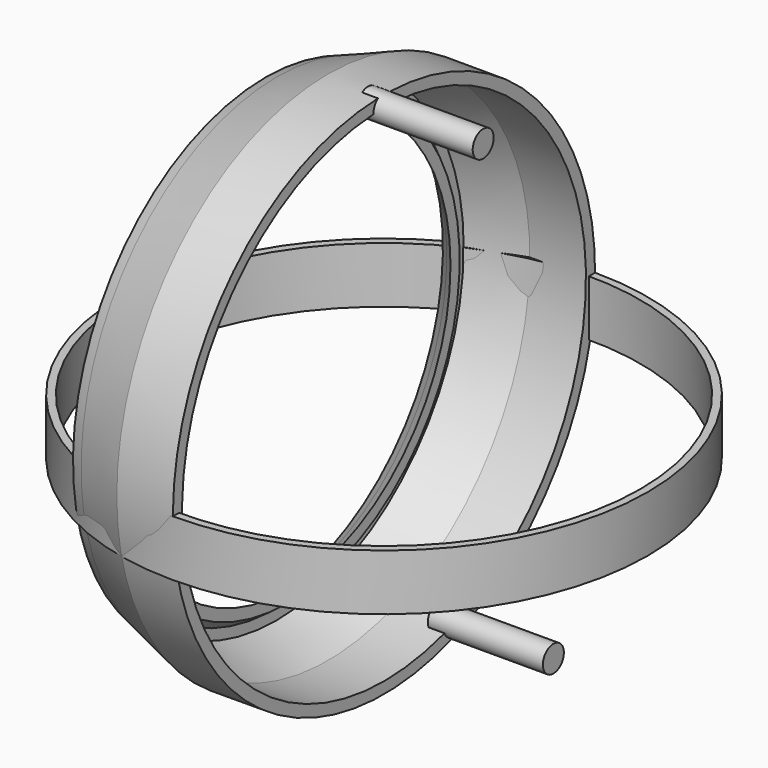
from build123d import *

# Parameters (mm, degrees)
F0_R      = 50.815
F0_R_2    = 49.345
F1_DEPTH  = 10.8
F4_R      = 2.525
F5_DEPTH  = 18.8
F6_DEPTH  = 3.05
F7_R      = 2.525
F8_DEPTH  = 19.1
F9_DEPTH  = 3.05
F10_DEPTH = 19.1


with BuildPart() as f1:
    # F0 (on Top) → F1 (new body)
    with BuildSketch(Plane.XY):
        Circle(F0_R)
        Circle(F0_R_2, mode=Mode.SUBTRACT)
    extrude(amount=-F1_DEPTH)


with BuildPart() as f3:
    # F2 (on Front) → F3 (revolve)
    with BuildSketch(Plane.XZ):
        Polygon((0, 48.615), (0, 50.815), (-10.8, 50.815), (-20.6008047741, 47.1770952301), (-20.6008047741, 44.9770952301), (-10.8, 48.615), align=None)
        Polygon((-20.6483412873, 42.9370863552), (-22.4750889607, 44.2813903834), (-22.8004810661, 44.1606099456), (-22.800804627, 42.6807885977), (-20.6708046779, 40.9334691601), align=None)
        Polygon((-18.5408047288, 41.3861497226), (-20.6483412873, 42.9370863552), (-20.6708046779, 40.9334691601), (-18.5408047288, 39.1861497226), align=None)
        Polygon((-20.6483412873, 42.9370863552), (-20.6255729673, 44.9679016659), (-22.4750889607, 44.2813903834), align=None)
        Polygon((-20.6255729673, 44.9679016659), (-20.6008047741, 47.1770952301), (-22.8, 46.3607885097), (-22.8004023135, 44.5207885537), (-22.4750889607, 44.2813903834), align=None)
        Polygon((-22.4750889607, 44.2813903834), (-22.8004023135, 44.5207885537), (-22.8004810661, 44.1606099456), align=None)
        Polygon((-20.6255729673, 44.9679016659), (-20.6008047741, 47.1770952301), (-22.8, 46.3607885097), (-22.8004023135, 44.5207885537), (-22.4750889607, 44.2813903834), align=None)
        Polygon((-20.6008047741, 44.9770952301), (-20.6008047741, 47.1770952301), (-20.6255729673, 44.9679016659), align=None)
    revolve(axis=Axis((-10.9746353701, 0, 0), (-1, 0, 0)))

    # F4 (on Right) → F5 (join)
    with BuildSketch(Plane.YZ):
        with Locations((0, 48.7216291603)):
            Circle(F4_R)
    extrude(amount=F5_DEPTH)

    # F4 (on Right) → F6 (join)
    with BuildSketch(Plane.YZ):
        with Locations((0, 48.7216291603)):
            Circle(F4_R)
    extrude(amount=-F6_DEPTH)

    # F7 (on Right) → F8 (join)
    with BuildSketch(Plane.YZ):
        with Locations((16.8893956308, -45.4406320229)):
            Circle(F7_R)
    extrude(amount=F8_DEPTH)

    # F7 (on Right) → F9 (join)
    with BuildSketch(Plane.YZ):
        with Locations((16.8893956308, -45.4406320229)):
            Circle(F7_R)
    extrude(amount=-F9_DEPTH)

    # F4 (on Right) → F10 (join)
    with BuildSketch(Plane.YZ):
        with Locations((0, 48.7216291603)):
            Circle(F4_R)
    extrude(amount=F10_DEPTH)


solid = Compound([f1.part, f3.part])
